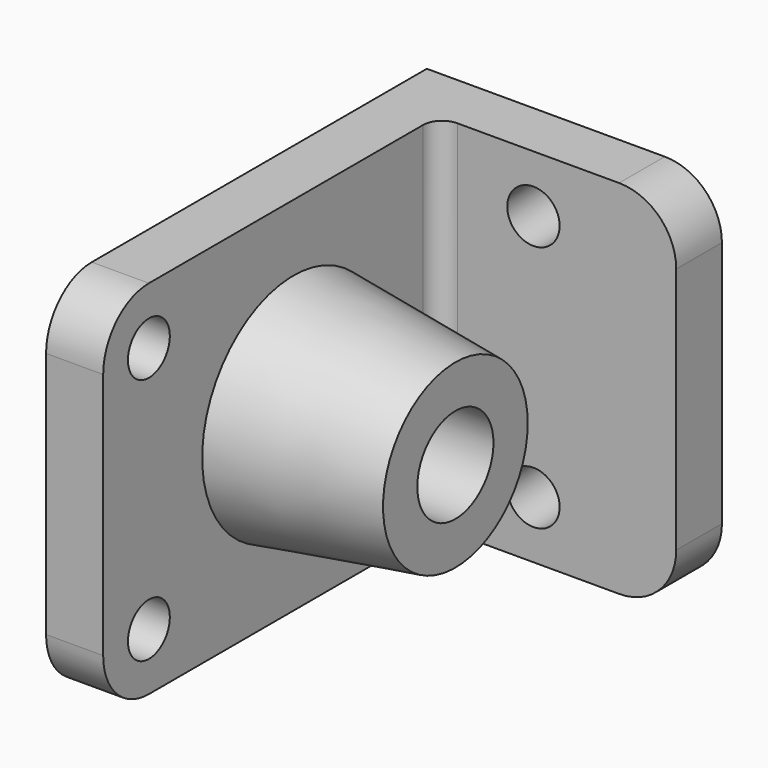
from build123d import *

# Parameters (mm, degrees)
F0_R      = 5.5
F1_DEPTH  = 12
F2_W      = 12
F2_H      = 76
F3_DEPTH  = 50
F4_R      = 5.5
F5_DEPTH  = 12
F8_R      = 19
F6_R      = 24
F10_R     = 10
F11_DEPTH = 46
F13_DEPTH = 76


with BuildPart() as f1:
    # F0 (on Right) → F1 (new body)
    with BuildSketch(Plane.YZ):
        with BuildLine():
            ThreePointArc((0, 12), (3.5147186258, 3.5147186258), (12, 0))
            Line((12, 0), (100, 0))
            Line((100, 0), (100, 76))
            Line((100, 76), (12, 76))
            ThreePointArc((12, 76), (3.5147186258, 72.4852813742), (0, 64))
            Line((0, 64), (0, 12))
        make_face()
        with Locations((12, 12)):
            Circle(F0_R, mode=Mode.SUBTRACT)
        with Locations((12, 64)):
            Circle(F0_R, mode=Mode.SUBTRACT)
    extrude(amount=F1_DEPTH)

    # F2 (on face) → F3 (join)
    with BuildSketch(Plane.YZ.offset(12)):
        with Locations((94, 38)):
            Rectangle(F2_W, F2_H)
    extrude(amount=F3_DEPTH)

    # F4 (on face) → F5 (cut)
    with BuildSketch(Plane.XZ.offset(-88)):
        with Locations((32, 64)):
            Circle(F4_R)
        with Locations((32, 12)):
            Circle(F4_R)
        with BuildLine():
            ThreePointArc((50, 76), (58.4852813742, 72.4852813742), (62, 64))
            Line((62, 64), (62, 76))
            Line((62, 76), (50, 76))
        make_face()
        with BuildLine():
            Line((62, 0), (62, 12))
            ThreePointArc((62, 12), (58.4852813742, 3.5147186258), (50, 0))
            Line((50, 0), (62, 0))
        make_face()
    extrude(amount=-F5_DEPTH, mode=Mode.SUBTRACT)

    # F8 (on offset) → F9 section 0
    with BuildSketch(Plane.YZ.offset(46)):
        with Locations((50, 38)):
            Circle(F8_R)
    # F6 (on face) → F9 section 1
    with BuildSketch(Plane.YZ.offset(12)):
        with Locations((50, 38)):
            Circle(F6_R)
    loft()

    # F10 (on face) → F11 (cut)
    with BuildSketch(Plane.YZ.offset(46)):
        with Locations((50, 38)):
            Circle(F10_R)
    extrude(amount=-F11_DEPTH, mode=Mode.SUBTRACT)

    # F12 (on face) → F13 (join)
    with BuildSketch(Plane.XY.offset(76)):
        with BuildLine():
            ThreePointArc((12, 84), (13.1715728753, 86.8284271247), (16, 88))
            Line((16, 88), (12, 88))
            Line((12, 88), (12, 84))
        make_face()
    extrude(amount=-F13_DEPTH)


solid = f1.part
